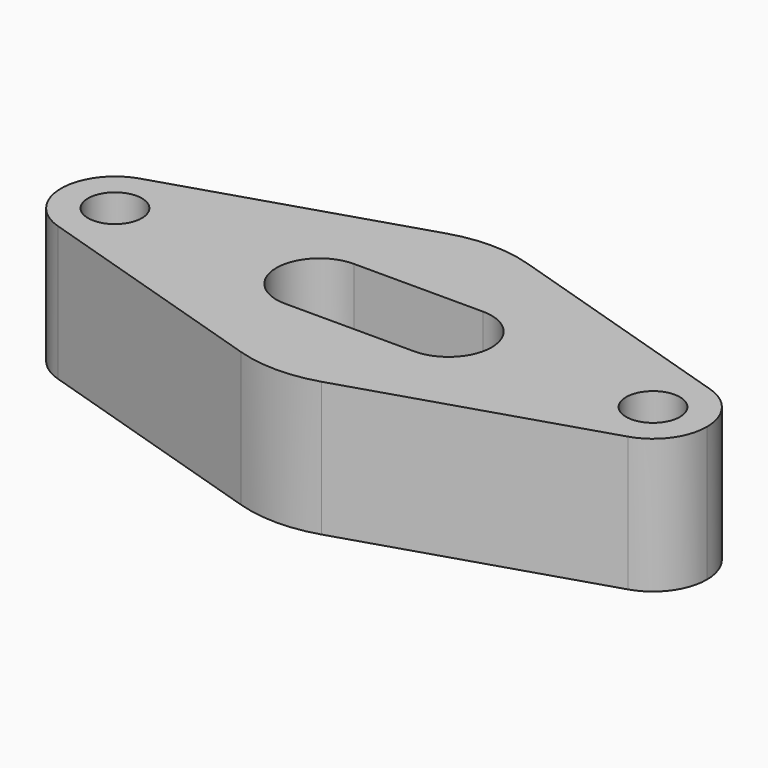
from build123d import *

# Parameters (mm, degrees)
F0_R     = 5
F1_DEPTH = 25


with BuildPart() as f1:
    # F0 (on Top) → F1 (new body)
    with BuildSketch(Plane.XY):
        with BuildLine():
            Line((-53, -9.539392), (-7.5, -23.84848))
            ThreePointArc((-7.5, -23.84848), (0, -25), (7.5, -23.84848))
            Line((7.5, -23.84848), (53, -9.539392))
            ThreePointArc((53, -9.539392), (40, 0), (53, 9.539392))
            Line((53, 9.539392), (7.5, 23.84848))
            ThreePointArc((7.5, 23.84848), (0, 25), (-7.5, 23.84848))
            Line((-7.5, 23.84848), (-53, 9.539392))
            ThreePointArc((-53, 9.539392), (-44.08392, 8.062258), (-40, 0))
            ThreePointArc((-40, 0), (-44.08392, -8.062258), (-53, -9.539392))
        make_face()
        with BuildLine():
            ThreePointArc((12, 8), (20, 0), (12, -8))
            Line((12, -8), (-12, -8))
            ThreePointArc((-12, -8), (-20, 0), (-12, 8))
            Line((-12, 8), (12, 8))
        make_face(mode=Mode.SUBTRACT)
        with BuildLine():
            ThreePointArc((-53, 9.539392), (-60, 0), (-53, -9.539392))
            ThreePointArc((-53, -9.539392), (-44.08392, -8.062258), (-40, 0))
            ThreePointArc((-40, 0), (-44.08392, 8.062258), (-53, 9.539392))
        make_face()
        with Locations((-50, 0)):
            Circle(F0_R, mode=Mode.SUBTRACT)
        with BuildLine():
            ThreePointArc((53, 9.539392), (40, 0), (53, -9.539392))
            ThreePointArc((53, -9.539392), (58.062258, -5.91608), (60, 0))
            ThreePointArc((60, 0), (58.062258, 5.91608), (53, 9.539392))
        make_face()
        with Locations((50, 0)):
            Circle(F0_R, mode=Mode.SUBTRACT)
    extrude(amount=F1_DEPTH)


solid = f1.part
